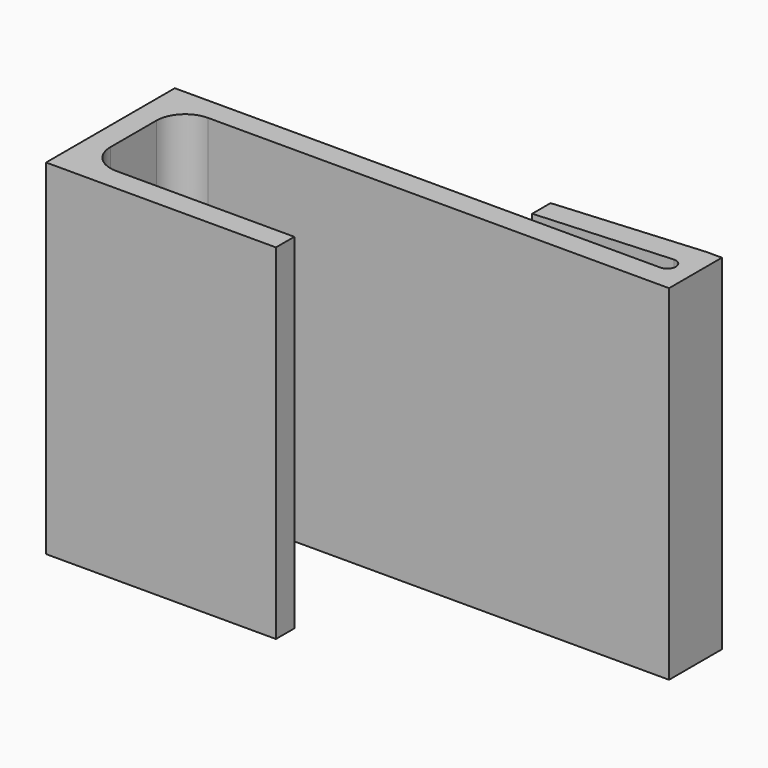
from build123d import *

# Parameters (mm, degrees)
F1_DEPTH      = 30
F1_DEPTH_BACK = 30
F2_ANGLE      = 90


with BuildPart() as f1:
    # F0 (on Right) → F1 (new body, two sides)
    with BuildSketch(Plane.YZ) as f1_sk:
        with BuildLine():
            Line((0, 89.215666), (0, 9))
            ThreePointArc((0, 9), (-1.464466, 5.464466), (-5, 4))
            Line((-5, 4), (-15, 4))
            ThreePointArc((-15, 4), (-18.535534, 5.464466), (-20, 9))
            Line((-20, 9), (-20, 40))
            Line((-20, 40), (-24, 40))
            Line((-24, 40), (-24, 0))
            Line((-24, 0), (0, 0))
            Line((0, 0), (4, 0))
            Line((4, 0), (4, 84.5))
            ThreePointArc((4, 84.5), (4.43934, 85.56066), (5.5, 86))
            ThreePointArc((5.5, 86), (6.56066, 85.56066), (7, 84.5))
            Line((7, 84.5), (5.5, 61))
            Line((5.5, 61), (9.5, 61))
            Line((9.5, 61), (11.5, 86.5))
            Line((11.5, 86.5), (11.5, 89.215666))
            Line((11.5, 89.215666), (0, 89.215666))
        make_face()
    extrude(amount=F1_DEPTH)
    extrude(f1_sk.sketch, amount=-F1_DEPTH_BACK)


with BuildPart() as f1_1:
    # F2: moved
    add(f1.part.rotate(Axis((30, -10, 0), (0, 1, 0)), F2_ANGLE))


solid = f1_1.part
